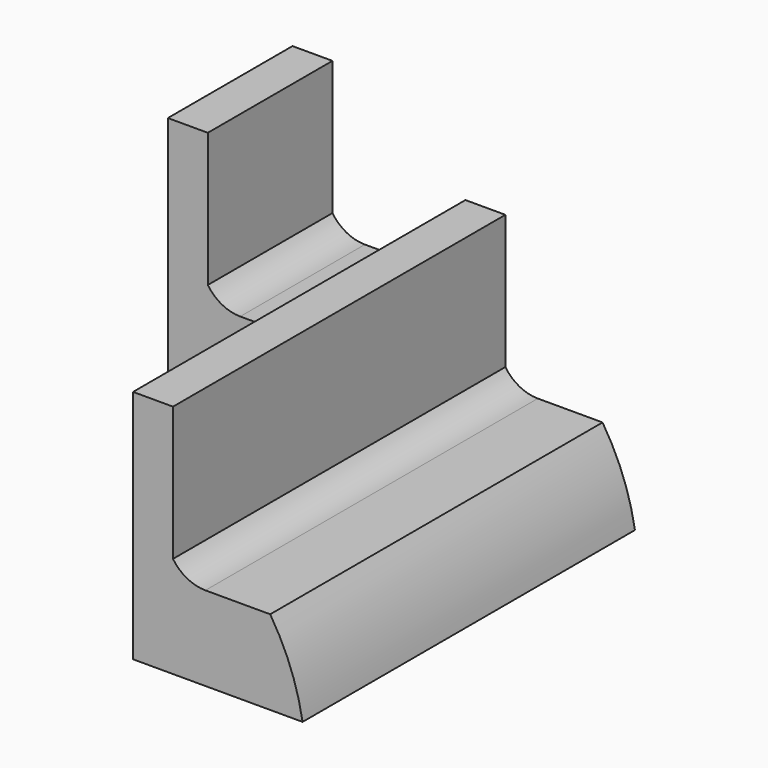
from build123d import *

# Parameters (mm, degrees)
F1_DEPTH = 38.1
F3_DEPTH = 101.6


with BuildPart() as f1:
    # F0 (on Front) → F1 (new body)
    with BuildSketch(Plane.XZ):
        with BuildLine():
            ThreePointArc((-49.64317, 37.760496), (-52.291704, 44.494011), (-49.64317, 51.227525))
            Line((-49.64317, 51.227525), (-59.413366, 51.227525))
            Line((-59.413366, 51.227525), (-59.413366, -6.337426))
            Line((-59.413366, -6.337426), (-25.877822, -6.337426))
            Line((-25.877822, -6.337426), (-17.956039, -6.337426))
            ThreePointArc((-17.956039, -6.337426), (-20.86875, 4.364038), (-25.877822, 14.259209))
            Line((-25.877822, 14.259209), (-41.721389, 14.259209))
            ThreePointArc((-41.721389, 14.259209), (-46.204425, 15.374006), (-49.64317, 18.458712))
            Line((-49.64317, 18.458712), (-49.64317, 37.760496))
        make_face()
        with BuildLine():
            Line((-49.64317, 37.760496), (-49.64317, 51.227525))
            ThreePointArc((-49.64317, 51.227525), (-52.291704, 44.494011), (-49.64317, 37.760496))
        make_face()
    extrude(amount=F1_DEPTH)


with BuildPart() as f3:
    # F2 (on Front) → F3 (new body)
    with BuildSketch(Plane.XZ):
        with BuildLine():
            ThreePointArc((-7.355777, 18.368443), (-10.004311, 25.101957), (-7.355777, 31.835472))
            Line((-7.355777, 31.835472), (-17.125973, 31.835472))
            Line((-17.125973, 31.835472), (-17.125973, -25.729479))
            Line((-17.125973, -25.729479), (16.40957, -25.729479))
            Line((16.40957, -25.729479), (24.331354, -25.729479))
            ThreePointArc((24.331354, -25.729479), (21.418643, -15.028015), (16.40957, -5.132844))
            Line((16.40957, -5.132844), (0.566004, -5.132844))
            ThreePointArc((0.566004, -5.132844), (-3.917032, -4.018047), (-7.355777, -0.933341))
            Line((-7.355777, -0.933341), (-7.355777, 18.368443))
        make_face()
        with BuildLine():
            Line((-7.355777, 18.368443), (-7.355777, 31.835472))
            ThreePointArc((-7.355777, 31.835472), (-10.004311, 25.101957), (-7.355777, 18.368443))
        make_face()
    extrude(amount=F3_DEPTH)


solid = Compound([f1.part, f3.part])
